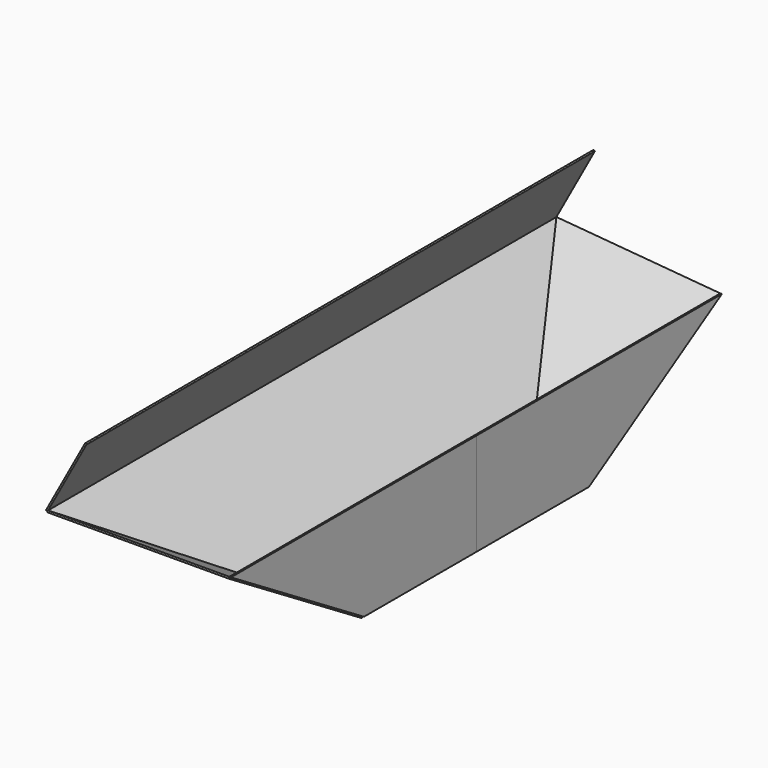
from build123d import *

# Parameters (mm, degrees)
F1_DEPTH = 1.5875
F3_DEPTH = 1.5875
F7_DEPTH = 1.5875
F9_DEPTH = 315.6160606221


with BuildPart() as f1:
    # F0 (on Right) → F1 (new body)
    with BuildSketch(Plane.YZ):
        Polygon((139.7, 49.4305624351), (304.8, 151.0305624351), (0, 151.0305624351), (0, 49.4305624351), align=None)
    extrude(amount=F1_DEPTH)


with BuildPart() as f3:
    # F2 (on face) → F3 (new body)
    with BuildSketch(Plane(origin=(0, 16.3091051792, -26.5022959161), x_dir=(1, 0, 0), z_dir=(0, 0.5240974257, -0.8516583167))):
        Polygon((0, -338.7401839004), (0, -144.883097365), (-57.15, -144.883097365), (-171.45, -351.4401839004), align=None)
    extrude(amount=F3_DEPTH)



with BuildPart() as f7:
    # F6 (on 3pt) → F7 (new body)
    with BuildSketch(Plane(origin=(-2.345266266, 0, -2.4762030911), x_dir=(0.7260420263, 0, -0.6876503297), z_dir=(-0.6876503297, 0, -0.7260420263))):
        Polygon((-75.484244363, -139.7), (-75.484244363, 0), (-232.9131477231, 0), (-232.9131477231, -315.6160606221), align=None)
    extrude(amount=F7_DEPTH)


with BuildPart() as f3_1:
    add(f3.part)

    add(f7.part)  # F9 merges F7
    # F8 (on face) → F9 (join)
    with BuildSketch(Plane.XZ):
        Polygon((-173.4287163172, 157.3741728239), (-172.5416448985, 156.5340080243), (-171.45, 157.6865997411), (-133.35, 227.5365997411), (-134.743659222, 228.2967774985), align=None)
    extrude(amount=-F9_DEPTH)

    # F10: F3, F1 across plane


with BuildPart() as f3_2:
    add(f3_1.part)
    add(f3_1.part.mirror(Plane.XZ))
    add(f1.part.mirror(Plane.XZ))


solid = Compound([f1.part, f3_2.part])
